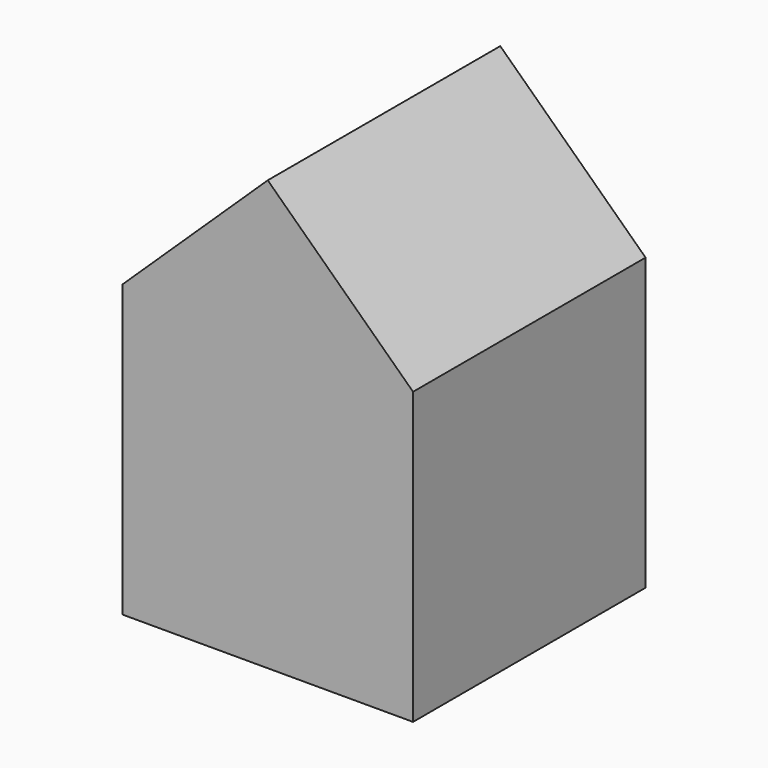
from build123d import *

# Parameters (mm, degrees)
F0_W     = 50.8
F0_H     = 50.8
F1_DEPTH = 50.8


with BuildPart() as f1:
    # F0 (on Front) → F1 (new body)
    with BuildSketch(Plane.XZ):
        Rectangle(F0_W, F0_H)
        Polygon((-25.4, 25.4), (25.4, 25.4), (0, 49.684621), align=None)
    extrude(amount=F1_DEPTH)


solid = f1.part
